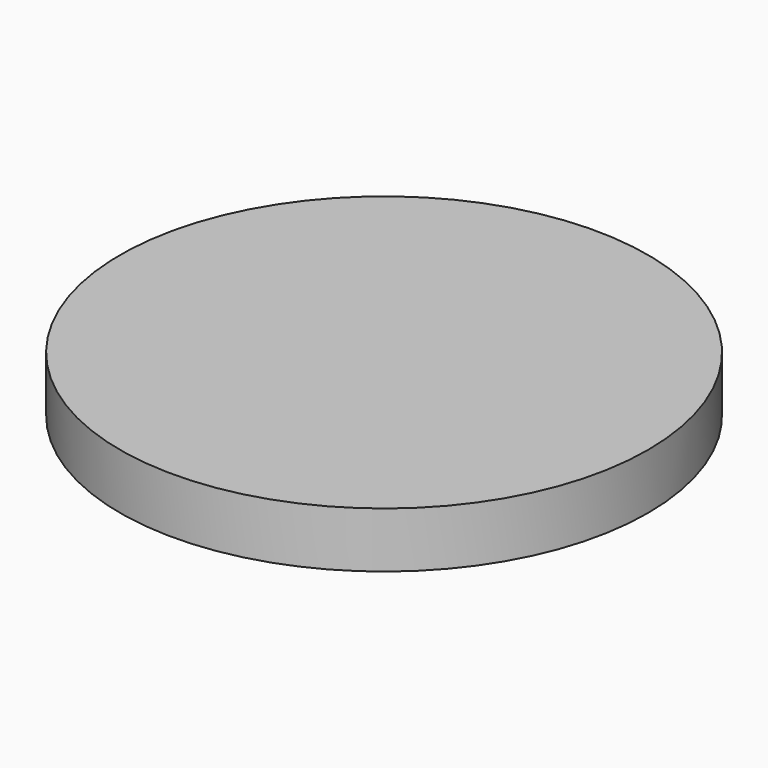
from build123d import *

# Parameters (mm, degrees)
F0_R      = 21.5
F0_R_2    = 18.5
F1_DEPTH  = 7
F4_COUNT  = 6
F6_R      = 21.5
F6_R_2    = 18.5
F7_DEPTH  = 7
F5_R      = 21.5
F5_R_2    = 18.5
F8_DEPTH  = 7
F9_COUNT  = 6
F10_R     = 66.534262
F11_DEPTH = 14


with BuildPart() as f1:
    # F0 (on Top) → F1 (new body)
    with BuildSketch(Plane.XY):
        with Locations((0, 20)):
            Circle(F0_R)
        with Locations((0, 20)):
            Circle(F0_R_2, mode=Mode.SUBTRACT)
    extrude(amount=F1_DEPTH)


with BuildPart() as f4_1:
    # F4: instance of F1
    add(f1.part.rotate(Axis((0, 0, 5.591518), (0, 0, 1)), 1 * 360 / F4_COUNT))


with BuildPart() as f4_2:
    # F4: instance of F1
    add(f1.part.rotate(Axis((0, 0, 5.591518), (0, 0, 1)), 2 * 360 / F4_COUNT))


with BuildPart() as f4_3:
    # F4: instance of F1
    add(f1.part.rotate(Axis((0, 0, 5.591518), (0, 0, 1)), 3 * 360 / F4_COUNT))


with BuildPart() as f4_4:
    # F4: instance of F1
    add(f1.part.rotate(Axis((0, 0, 5.591518), (0, 0, 1)), 4 * 360 / F4_COUNT))


with BuildPart() as f4_5:
    # F4: instance of F1
    add(f1.part.rotate(Axis((0, 0, 5.591518), (0, 0, 1)), 5 * 360 / F4_COUNT))


with BuildPart() as f7:
    # F6 (on Top) → F7 (new body)
    with BuildSketch(Plane.XY):
        Circle(F6_R)
        Circle(F6_R_2, mode=Mode.SUBTRACT)
    extrude(amount=F7_DEPTH)


with BuildPart() as f8:
    # F5 (on Top) → F8 (new body)
    with BuildSketch(Plane.XY):
        with Locations((-17.320508, 30)):
            Circle(F5_R)
        with Locations((-17.320508, 30)):
            Circle(F5_R_2, mode=Mode.SUBTRACT)
    extrude(amount=F8_DEPTH)


with BuildPart() as f9_1:
    # F9: instance of F8
    add(f8.part.rotate(Axis((0, 0, 5.591518), (0, 0, 1)), 1 * 360 / F9_COUNT))


with BuildPart() as f9_2:
    # F9: instance of F8
    add(f8.part.rotate(Axis((0, 0, 5.591518), (0, 0, 1)), 2 * 360 / F9_COUNT))


with BuildPart() as f9_3:
    # F9: instance of F8
    add(f8.part.rotate(Axis((0, 0, 5.591518), (0, 0, 1)), 3 * 360 / F9_COUNT))


with BuildPart() as f9_4:
    # F9: instance of F8
    add(f8.part.rotate(Axis((0, 0, 5.591518), (0, 0, 1)), 4 * 360 / F9_COUNT))


with BuildPart() as f9_5:
    # F9: instance of F8
    add(f8.part.rotate(Axis((0, 0, 5.591518), (0, 0, 1)), 5 * 360 / F9_COUNT))


with BuildPart() as f11:
    # F10 (on Top) → F11 (new body)
    with BuildSketch(Plane.XY):
        Circle(F10_R)
    extrude(amount=F11_DEPTH)

    # F12: cut F1, F4_2, F4_3, F4_1, F4_4, F4_5, F7, F9_1, F8, F9_2, F9_3, F9_4, F9_5
    add(f1.part, mode=Mode.SUBTRACT)
    add(f4_2.part, mode=Mode.SUBTRACT)
    add(f4_3.part, mode=Mode.SUBTRACT)
    add(f4_1.part, mode=Mode.SUBTRACT)
    add(f4_4.part, mode=Mode.SUBTRACT)
    add(f4_5.part, mode=Mode.SUBTRACT)
    add(f7.part, mode=Mode.SUBTRACT)
    add(f9_1.part, mode=Mode.SUBTRACT)
    add(f8.part, mode=Mode.SUBTRACT)
    add(f9_2.part, mode=Mode.SUBTRACT)
    add(f9_3.part, mode=Mode.SUBTRACT)
    add(f9_4.part, mode=Mode.SUBTRACT)
    add(f9_5.part, mode=Mode.SUBTRACT)


solid = f11.part
